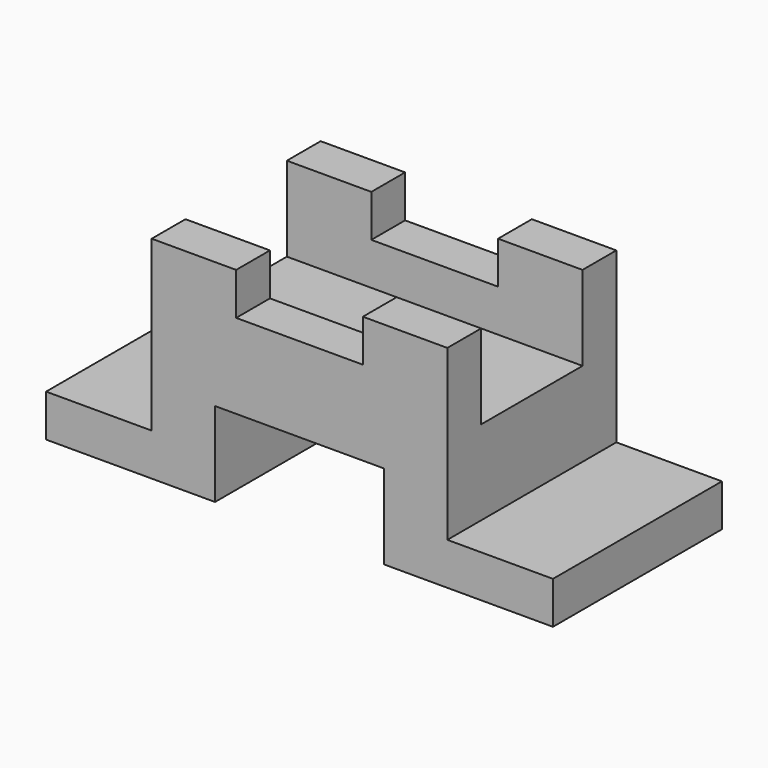
from build123d import *

# Parameters (mm, degrees)
F1_DEPTH = 50
F2_W     = 20
F2_H     = 30
F2_W_2   = 50
F3_DEPTH = 20


with BuildPart() as f1:
    # F0 (on Front) → F1 (new body)
    with BuildSketch(Plane.XZ):
        Polygon((-40.344829, 10), (-40.344829, 0), (-0.344829, 0), (-0.344829, 20), (39.655171, 20), (39.655171, 0), (79.655171, 0), (79.655171, 10), (54.655171, 10), (54.655171, 50), (34.655171, 50), (34.655171, 40), (4.655171, 40), (4.655171, 50), (-15.344829, 50), (-15.344829, 10), align=None)
    extrude(amount=F1_DEPTH)

    # F2 (on face) → F3 (cut)
    with BuildSketch(Plane.XY.offset(50)):
        with Locations((-5.344829, -25)):
            Rectangle(F2_W, F2_H)
        with Locations((29.655171, -25)):
            Rectangle(F2_W_2, F2_H)
    extrude(amount=-F3_DEPTH, mode=Mode.SUBTRACT)


solid = f1.part
